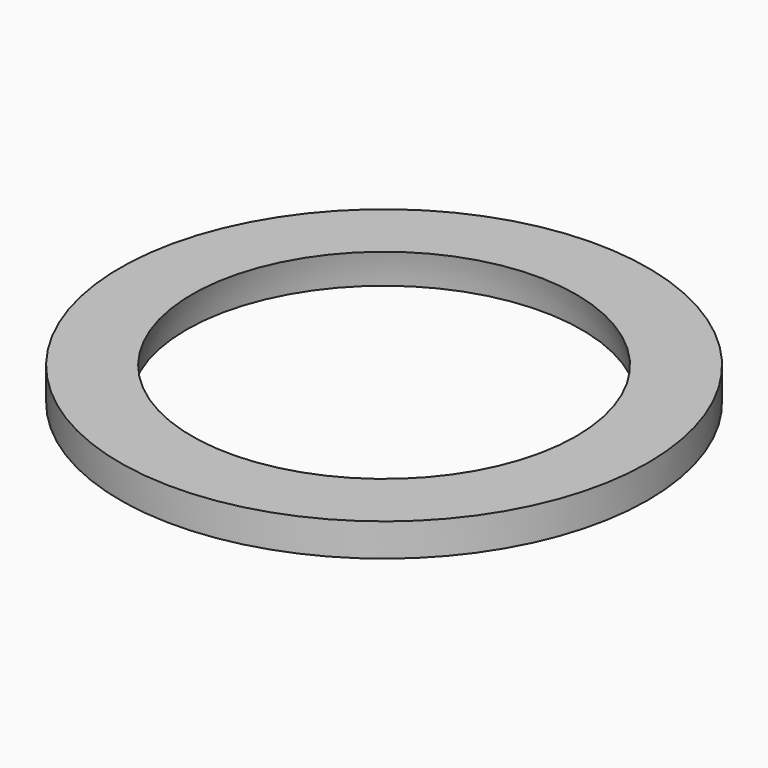
from build123d import *


with BuildPart() as f1:
    # F0 (on Front) → F1 (revolve)
    with BuildSketch(Plane.XZ):
        with BuildLine():
            ThreePointArc((37.152439, 9.525), (37.820902, 6.372494), (38.222359, 3.175))
            Line((38.222359, 3.175), (51.054, 3.175))
            Line((51.054, 3.175), (51.054, 9.525))
            Line((51.054, 9.525), (37.152439, 9.525))
        make_face()
    revolve(axis=Axis((0, 0, 1.611587), (0, 0, -1)))


solid = f1.part
